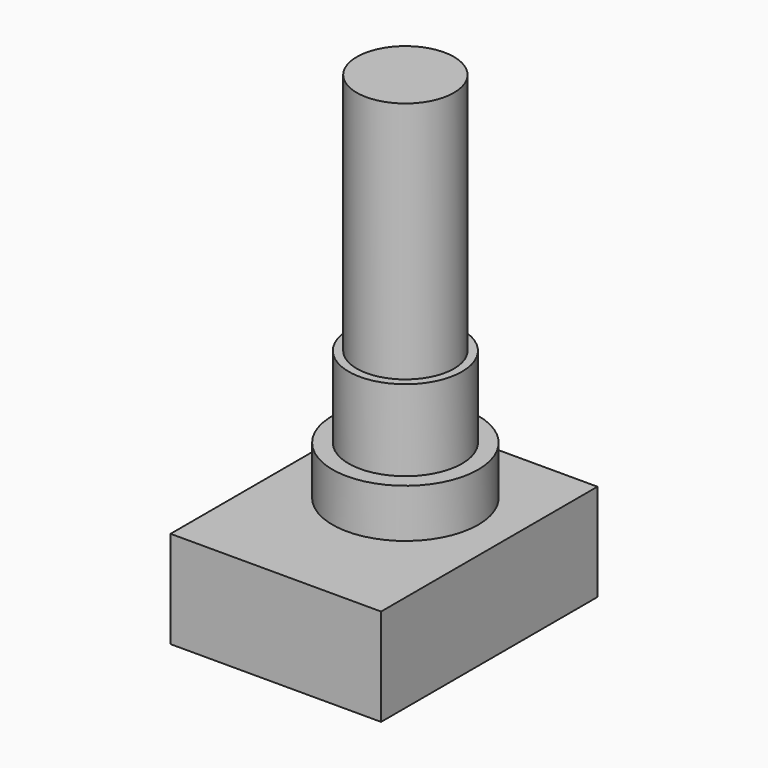
from build123d import *

# Parameters (mm, degrees)
SKETCH022_W  = 13
SKETCH022_H  = 16.7
PAD020_DEPTH = 6
SKETCH023_R  = 4.5
PAD021_DEPTH = 3
SKETCH024_R  = 3.5
PAD022_DEPTH = 5
SKETCH025_R  = 3
PAD023_DEPTH = 15


with BuildPart() as part:
    # Sketch022 → Pad020 (new body)
    with BuildSketch(Plane.XY):
        with Locations((6.5, 8.35)):
            Rectangle(SKETCH022_W, SKETCH022_H)
    extrude(amount=PAD020_DEPTH)

    # Sketch023 (on Face6 of Pad020) → Pad021 (join)
    with BuildSketch(Plane.XY.offset(6)):
        with Locations((6.5, 10)):
            Circle(SKETCH023_R)
    extrude(amount=PAD021_DEPTH)

    # Sketch024 (on Face8 of Pad021) → Pad022 (join)
    with BuildSketch(Plane.XY.offset(9)):
        with Locations((6.5, 10)):
            Circle(SKETCH024_R)
    extrude(amount=PAD022_DEPTH)

    # Sketch025 (on Face10 of Pad022) → Pad023 (join)
    with BuildSketch(Plane.XY.offset(14)):
        with Locations((6.5, 10)):
            Circle(SKETCH025_R)
    extrude(amount=PAD023_DEPTH)


solid = part.part
